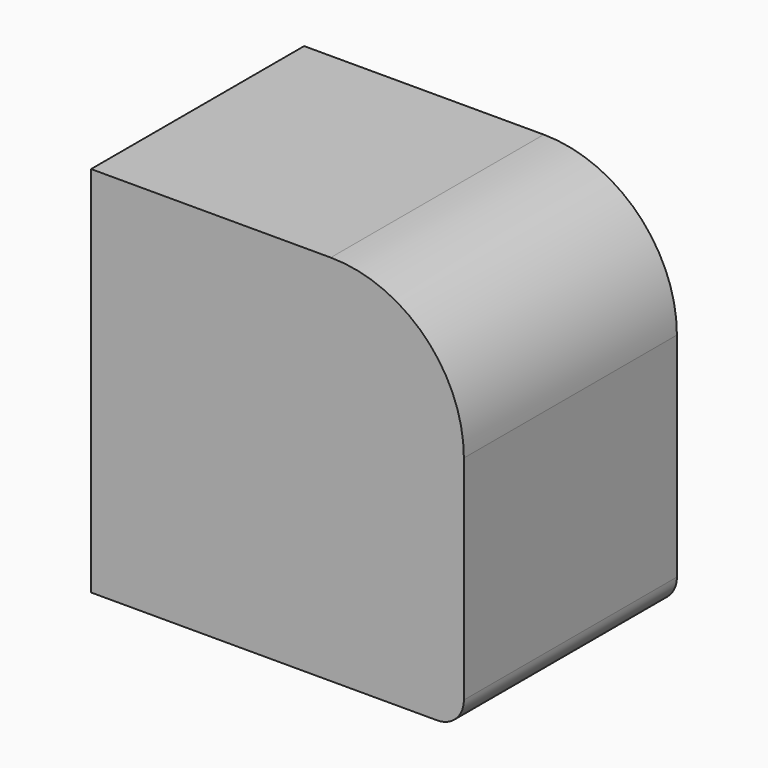
from build123d import *

# Parameters (mm, degrees)
F1_DEPTH = 127
F2_R     = 12.7


with BuildPart() as f1:
    # F0 (on Front) → F1 (new body)
    with BuildSketch(Plane.XZ):
        with BuildLine():
            Line((-63.5, 177.8), (-177.8, 177.8))
            Line((-177.8, 177.8), (-177.8, 0))
            Line((-177.8, 0), (0, 0))
            Line((0, 0), (0, 114.3))
            ThreePointArc((0, 114.3), (-18.598719, 159.201281), (-63.5, 177.8))
        make_face()
    extrude(amount=-F1_DEPTH)

    # F2
    f2_edges = [f1.edges().sort_by_distance(p)[0] for p in [
        (0, 63.5, 0),
    ]]
    fillet(f2_edges, radius=F2_R)


solid = f1.part
